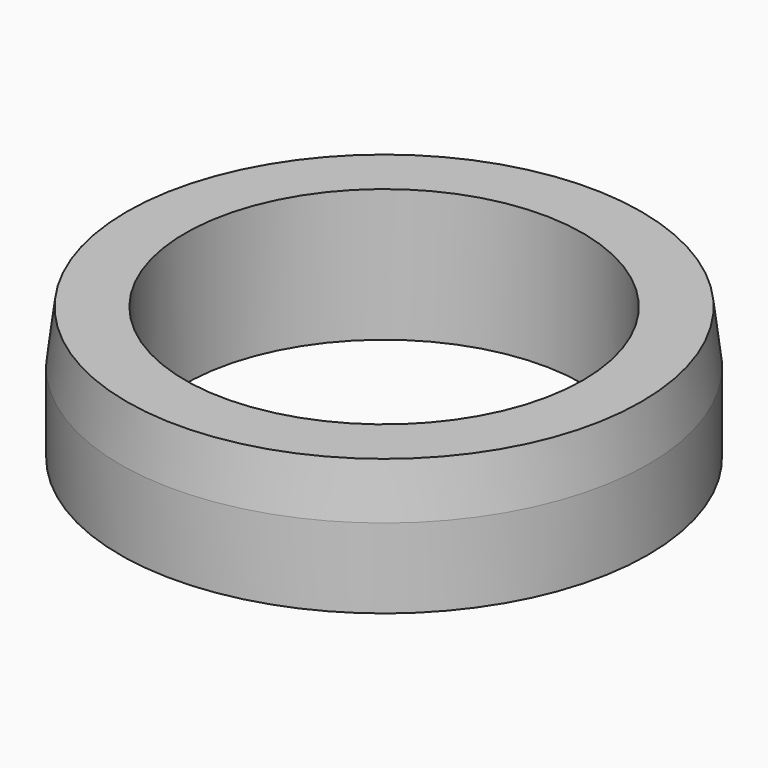
from build123d import *

# Parameters (mm, degrees)
F0_R     = 19.9
F0_R_2   = 15
F1_DEPTH = 10
F2_SIZE2 = 4
F2_SIZE  = 0.5


with BuildPart() as f1:
    # F0 (on Top) → F1 (new body)
    with BuildSketch(Plane.XY):
        Circle(F0_R)
        Circle(F0_R_2, mode=Mode.SUBTRACT)
    extrude(amount=F1_DEPTH)

    # F2
    f2_edges = [f1.edges().sort_by_distance(p)[0] for p in [
        (-19.9, 0, 10),
    ]]
    f2_side = f1.faces().sort_by_distance((-19.337143, 0, 10))[0]
    chamfer(f2_edges, length=F2_SIZE, length2=F2_SIZE2, reference=f2_side)


solid = f1.part
